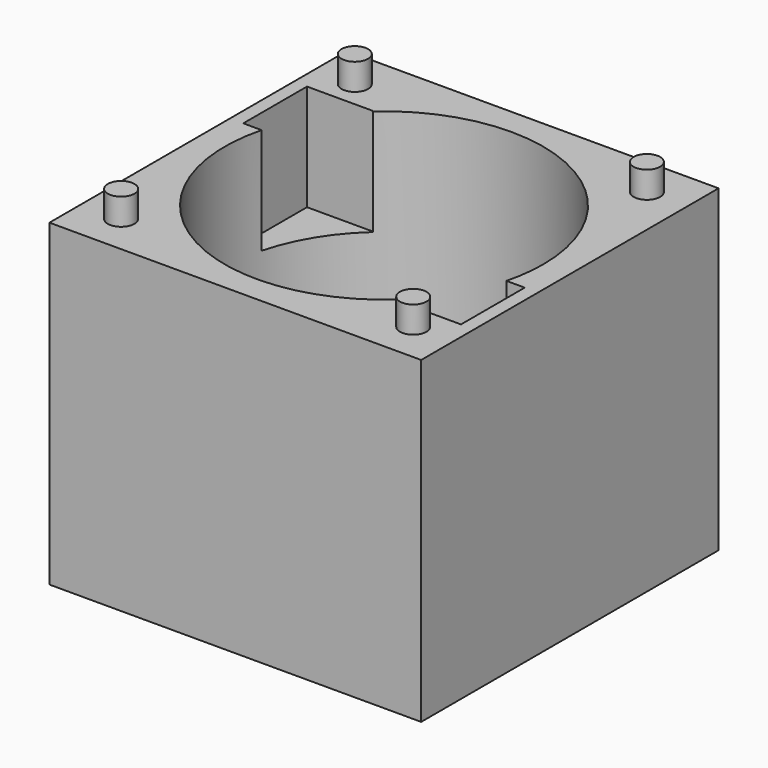
from build123d import *

# Parameters (mm, degrees)
F0_W     = 28
F0_H     = 28
F1_DEPTH = 24
F2_R     = 12
F3_DEPTH = 20
F4_R     = 1
F5_DEPTH = 2
F6_W     = 5
F6_H     = 6
F7_DEPTH = 8


with BuildPart() as f1:
    # F0 (on Top) → F1 (new body)
    with BuildSketch(Plane.XY):
        Rectangle(F0_W, F0_H)
    extrude(amount=F1_DEPTH)

    # F2 (on face) → F3 (cut)
    with BuildSketch(Plane.XY.offset(24)):
        Circle(F2_R)
    extrude(amount=-F3_DEPTH, mode=Mode.SUBTRACT)

    # F4 (on face) → F5 (join)
    with BuildSketch(Plane.XY.offset(24)):
        with Locations((-11, 11)):
            Circle(F4_R)
        with Locations((11, 11)):
            Circle(F4_R)
        with Locations((11, -11)):
            Circle(F4_R)
        with Locations((-11, -11)):
            Circle(F4_R)
    extrude(amount=F5_DEPTH)

    # F6 (on face) → F7 (cut)
    with BuildSketch(Plane.XY.offset(24)):
        with Locations((-10.5, 6)):
            Rectangle(F6_W, F6_H)
        with Locations((10.5, -6)):
            Rectangle(F6_W, F6_H)
    extrude(amount=-F7_DEPTH, mode=Mode.SUBTRACT)


solid = f1.part
